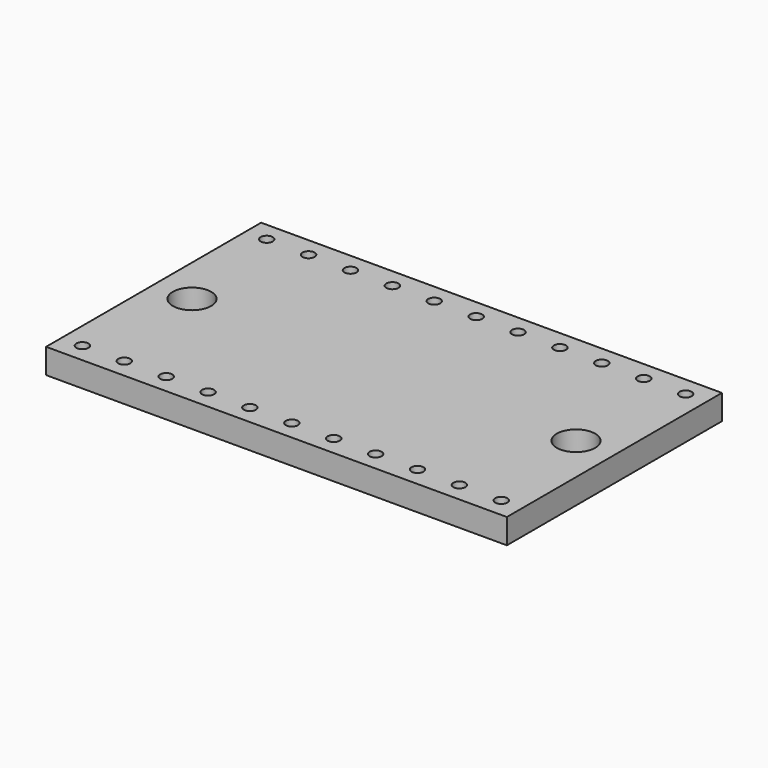
from build123d import *

# Parameters (mm, degrees)
SKETCH040_W            = 30.48
SKETCH040_H            = 17.78
PAD015_DEPTH           = 1.65
SKETCH042_R            = 1.27
POCKET024_DEPTH        = 1.651
SKETCH044_R            = 0.4
POCKET025_DEPTH        = 1.651
LINEARPATTERN_COUNT    = 12
LINEARPATTERN_PITCH    = 2.770909
LINEARPATTERN001_COUNT = 12
LINEARPATTERN001_PITCH = 2.770909


with BuildPart() as part:
    # Sketch040 → Pad015 (new body)
    with BuildSketch(Plane.XY):
        Rectangle(SKETCH040_W, SKETCH040_H)
    extrude(amount=-PAD015_DEPTH)

    # Sketch042 → Pocket024 (cut, through all)
    with BuildSketch(Plane.XY):
        with Locations((-12.7, 0)):
            Circle(SKETCH042_R)
        with Locations((12.7, 0)):
            Circle(SKETCH042_R)
    extrude(amount=-POCKET024_DEPTH, mode=Mode.SUBTRACT)

    # Sketch044 → Pocket025 (cut, through all)
    with BuildSketch(Plane.XY):
        with Locations((0, -7.62)):
            Circle(SKETCH044_R)
        with Locations((0, 7.62)):
            Circle(SKETCH044_R)
    pocket025 = extrude(amount=-POCKET025_DEPTH, mode=Mode.SUBTRACT)

    # LinearPattern: Pocket025 ×12
    with Locations(*[(i * LINEARPATTERN_PITCH, 0, 0) for i in range(1, LINEARPATTERN_COUNT)]):
        add(pocket025, mode=Mode.SUBTRACT)

    # LinearPattern001: Pocket025 ×12
    with Locations(*[(-i * LINEARPATTERN001_PITCH, 0, 0) for i in range(1, LINEARPATTERN001_COUNT)]):
        add(pocket025, mode=Mode.SUBTRACT)


solid = part.part
